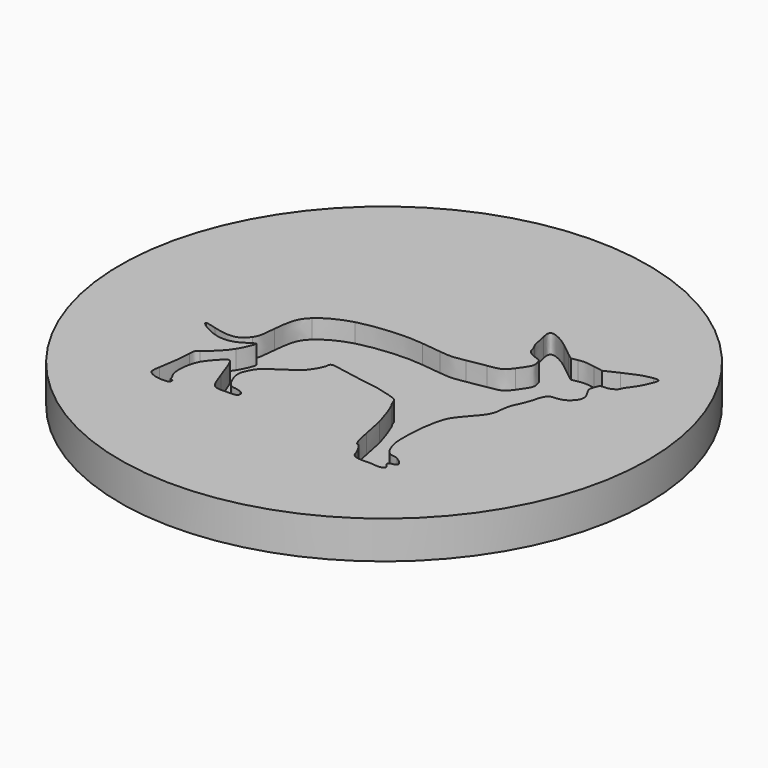
from build123d import *

# Parameters (mm, degrees)
SKETCH001_R  = 70
PAD_DEPTH    = 10
POCKET_DEPTH = 5


with BuildPart() as part:
    # Sketch001 (on DatumPlane) → Pad (new body)
    with BuildSketch(Plane.XY):
        Circle(SKETCH001_R)
    extrude(amount=-PAD_DEPTH)

    # Sketch (on DatumPlane) → Pocket (cut)
    with BuildSketch(Plane(origin=(-40, 32, 0), x_dir=(1, 0, 0), z_dir=(0, 0, 1))):
        with BuildLine():
            add(Edge.make_bspline(
                [(68.896688, -69.050224), (69.853046, -68.840335), (69.939306, -68.397571), (69.174573, -67.623233)],
                knots=[0, 0, 0, 0, 1, 1, 1, 1], degree=3))
            add(Edge.make_bspline(
                [(69.174573, -67.623233), (68.497977, -66.93813), (68.664464, -66.620165), (69.801599, -66.425704)],
                knots=[0, 0, 0, 0, 1, 1, 1, 1], degree=3))
            add(Edge.make_bspline(
                [(69.801599, -66.425704), (70.481337, -66.309459), (70.857303, -66.089783), (70.857303, -65.808897)],
                knots=[0, 0, 0, 0, 1, 1, 1, 1], degree=3))
            add(Edge.make_bspline(
                [(70.857303, -65.808897), (70.857303, -65.087044), (68.805554, -63.520486), (67.86013, -63.520486)],
                knots=[0, 0, 0, 0, 1, 1, 1, 1], degree=3))
            add(Edge.make_bspline(
                [(67.86013, -63.520486), (66.44733, -63.520486), (65.554333, -62.617787), (64.801489, -60.428646)],
                knots=[0, 0, 0, 0, 1, 1, 1, 1], degree=3))
            add(Edge.make_bspline(
                [(64.801489, -60.428646), (64.198998, -58.67669), (64.123085, -57.931333), (64.17819, -54.309316)],
                knots=[0, 0, 0, 0, 1, 1, 1, 1], degree=3))
            add(Edge.make_bspline(
                [(64.17819, -54.309316), (64.248008, -49.723311), (65.035142, -45.313717), (66.169677, -43.153298)],
                knots=[0, 0, 0, 0, 1, 1, 1, 1], degree=3))
            add(Edge.make_bspline(
                [(66.169677, -43.153298), (66.532859, -42.461713), (67.566981, -41.100626), (68.467725, -40.128712)],
                knots=[0, 0, 0, 0, 1, 1, 1, 1], degree=3))
            add(Edge.make_bspline(
                [(68.467725, -40.128712), (71.34076, -37.028632), (71.970325, -35.8971), (72.153608, -33.503688)],
                knots=[0, 0, 0, 0, 1, 1, 1, 1], degree=3))
            add(Edge.make_bspline(
                [(72.153608, -33.503688), (72.252911, -32.207202), (72.56815, -30.883798), (72.972327, -30.066637)],
                knots=[0, 0, 0, 0, 1, 1, 1, 1], degree=3))
            add(Edge.make_bspline(
                [(72.972327, -30.066637), (73.837001, -28.318369), (74.761765, -25.834789), (74.771062, -25.235711)],
                knots=[0, 0, 0, 0, 1, 1, 1, 1], degree=3))
            add(Edge.make_bspline(
                [(74.771062, -25.235711), (74.775367, -24.960891), (75.675509, -22.629867), (76.239733, -22.413668)],
                knots=[0, 0, 0, 0, 1, 1, 1, 1], degree=3))
            add(Edge.make_bspline(
                [(76.239733, -22.413668), (79.288388, -22.227729), (80.178544, -21.780563), (81.365878, -20.489852)],
                knots=[0, 0, 0, 0, 1, 1, 1, 1], degree=3))
            add(Edge.make_bspline(
                [(81.365878, -20.489852), (82.052158, -19.743813), (82.431482, -18.800832), (82.050678, -17.636498)],
                knots=[0, 0, 0, 0, 1, 1, 1, 1], degree=3))
            add(Edge.make_bspline(
                [(82.050678, -17.636498), (81.733028, -16.66529), (80.432643, -15.377828), (80.690564, -14.364165)],
                knots=[0, 0, 0, 0, 1, 1, 1, 1], degree=3))
            add(Edge.make_bspline(
                [(80.690564, -14.364165), (80.948434, -13.350581), (81.318624, -12.42897), (81.513201, -12.316123)],
                knots=[0, 0, 0, 0, 1, 1, 1, 1], degree=3))
            add(Edge.make_bspline(
                [(81.513201, -12.316123), (81.707761, -12.203307), (82.382179, -12.109105), (83.011831, -12.10679)],
                knots=[0, 0, 0, 0, 1, 1, 1, 1], degree=3))
            add(Edge.make_bspline(
                [(83.011831, -12.10679), (84.130035, -12.102867), (85.637446, -11.167287), (85.637446, -10.477491)],
                knots=[0, 0, 0, 0, 1, 1, 1, 1], degree=3))
            add(Edge.make_bspline(
                [(85.637446, -10.477491), (85.637446, -10.326104), (86.173201, -9.505027), (86.828051, -8.652945)],
                knots=[0, 0, 0, 0, 1, 1, 1, 1], degree=3))
            add(Edge.make_bspline(
                [(86.828051, -8.652945), (88.181364, -6.891886), (89.707284, -3.503253), (89.436621, -2.860228)],
                knots=[0, 0, 0, 0, 1, 1, 1, 1], degree=3))
            add(Edge.make_bspline(
                [(89.436621, -2.860228), (89.294196, -2.52186), (88.983959, -2.469093), (87.974493, -2.611502)],
                knots=[0, 0, 0, 0, 1, 1, 1, 1], degree=3))
            add(Edge.make_bspline(
                [(87.974493, -2.611502), (85.841304, -2.912454), (84.734463, -3.297005), (81.064077, -5.012368)],
                knots=[0, 0, 0, 0, 1, 1, 1, 1], degree=3))
            add(Edge.make_bspline(
                [(81.064077, -5.012368), (77.546498, -6.656421)],
                knots=[0, 0, 4.591778, 4.591778], degree=1))
            add(Edge.make_bspline(
                [(77.546498, -6.656421), (74.98321, -6.192759)],
                knots=[0, 0, 3.035556, 3.035556], degree=1))
            add(Edge.make_bspline(
                [(74.98321, -6.192759), (72.852432, -5.807337), (72.132904, -5.783417), (70.719071, -6.05097)],
                knots=[0, 0, 0, 0, 1, 1, 1, 1], degree=3))
            add(Edge.make_bspline(
                [(70.719071, -6.05097), (69.018219, -6.372836)],
                knots=[0, 0, 2.017824, 2.017824], degree=1))
            add(Edge.make_bspline(
                [(69.018219, -6.372836), (67.599996, -5.321662)],
                knots=[0, 0, 2.123249, 2.123249], degree=1))
            add(Edge.make_bspline(
                [(67.599996, -5.321662), (66.819964, -4.743497), (65.352998, -3.571668), (64.339993, -2.717623)],
                knots=[0, 0, 0, 0, 1, 1, 1, 1], degree=3))
            add(Edge.make_bspline(
                [(64.339993, -2.717623), (62.672716, -1.311978), (60.216006, -0.004191), (59.242689, -0.004191)],
                knots=[0, 0, 0, 0, 1, 1, 1, 1], degree=3))
            add(Edge.make_bspline(
                [(59.242689, -0.004191), (58.332819, -0.004191), (58.14592, -0.73787), (58.625735, -2.425775)],
                knots=[0, 0, 0, 0, 1, 1, 1, 1], degree=3))
            add(Edge.make_bspline(
                [(58.625735, -2.425775), (58.882882, -3.330357), (59.093282, -4.428616), (59.093282, -4.866271)],
                knots=[0, 0, 0, 0, 1, 1, 1, 1], degree=3))
            add(Edge.make_bspline(
                [(59.093282, -4.866271), (59.093282, -5.303966), (59.364754, -6.147455), (59.696548, -6.740727)],
                knots=[0, 0, 0, 0, 1, 1, 1, 1], degree=3))
            add(Edge.make_bspline(
                [(59.696548, -6.740727), (60.02835, -7.333983), (60.299831, -8.023952), (60.299831, -8.274052)],
                knots=[0, 0, 0, 0, 1, 1, 1, 1], degree=3))
            add(Edge.make_bspline(
                [(60.299831, -8.274052), (60.299831, -9.106908), (61.496806, -10.130615), (63.004303, -10.587026)],
                knots=[0, 0, 0, 0, 1, 1, 1, 1], degree=3))
            add(Edge.make_bspline(
                [(63.004303, -10.587026), (63.848436, -10.842612), (64.553898, -11.239131), (64.631464, -11.501575)],
                knots=[0, 0, 0, 0, 1, 1, 1, 1], degree=3))
            add(Edge.make_bspline(
                [(64.631464, -11.501575), (65.255563, -13.613889), (65.232887, -13.684202), (62.840821, -17.054942)],
                knots=[0, 0, 0, 0, 1, 1, 1, 1], degree=3))
            add(Edge.make_bspline(
                [(62.840821, -17.054942), (61.383169, -19.108949), (61.088574, -19.259229), (57.467431, -19.796469)],
                knots=[0, 0, 0, 0, 1, 1, 1, 1], degree=3))
            add(Edge.make_bspline(
                [(57.467431, -19.796469), (56.616428, -19.922728), (54.444947, -20.30476), (52.641821, -20.645413)],
                knots=[0, 0, 0, 0, 1, 1, 1, 1], degree=3))
            add(Edge.make_bspline(
                [(52.641821, -20.645413), (49.570611, -21.225689), (49.151532, -21.243087), (46.008783, -20.920703)],
                knots=[0, 0, 0, 0, 1, 1, 1, 1], degree=3))
            add(Edge.make_bspline(
                [(46.008783, -20.920703), (44.163646, -20.731429), (41.839599, -20.464959), (40.844243, -20.32853)],
                knots=[0, 0, 0, 0, 1, 1, 1, 1], degree=3))
            add(Edge.make_bspline(
                [(40.844243, -20.32853), (36.349903, -19.712564), (28.946802, -20.268262), (23.952803, -21.596531)],
                knots=[0, 0, 0, 0, 1, 1, 1, 1], degree=3))
            add(Edge.make_bspline(
                [(23.952803, -21.596531), (20.952789, -22.394387), (17.676774, -24.089135), (15.899734, -25.762616)],
                knots=[0, 0, 0, 0, 1, 1, 1, 1], degree=3))
            add(Edge.make_bspline(
                [(15.899734, -25.762616), (13.86856, -27.675368), (13.251821, -29.397974), (12.820173, -34.36427)],
                knots=[0, 0, 0, 0, 1, 1, 1, 1], degree=3))
            add(Edge.make_bspline(
                [(12.820173, -34.36427), (12.466977, -38.427788), (12.372289, -38.854771), (11.554499, -40.071291)],
                knots=[0, 0, 0, 0, 1, 1, 1, 1], degree=3))
            add(Edge.make_bspline(
                [(11.554499, -40.071291), (9.871467, -42.57496), (7.577465, -43.000374), (2.888823, -41.678069)],
                knots=[0, 0, 0, 0, 1, 1, 1, 1], degree=3))
            add(Edge.make_bspline(
                [(2.888823, -41.678069), (1.423681, -41.264858), (0.146299, -40.998459), (0.050224, -41.086045)],
                knots=[0, 0, 0, 0, 1, 1, 1, 1], degree=3))
            add(Edge.make_bspline(
                [(0.050224, -41.086045), (-0.261554, -41.37025), (0.940724, -42.338507), (2.663185, -43.190354)],
                knots=[0, 0, 0, 0, 1, 1, 1, 1], degree=3))
            add(Edge.make_bspline(
                [(2.663185, -43.190354), (6.374807, -45.025965), (9.055003, -44.971268), (12.0279, -42.999205)],
                knots=[0, 0, 0, 0, 1, 1, 1, 1], degree=3))
            add(Edge.make_bspline(
                [(12.0279, -42.999205), (13.058466, -42.315632), (13.957575, -41.807325), (14.02593, -41.869634)],
                knots=[0, 0, 0, 0, 1, 1, 1, 1], degree=3))
            add(Edge.make_bspline(
                [(14.02593, -41.869634), (14.287217, -42.107814), (13.263856, -44.600803), (12.178727, -46.369631)],
                knots=[0, 0, 0, 0, 1, 1, 1, 1], degree=3))
            add(Edge.make_bspline(
                [(12.178727, -46.369631), (11.109679, -48.11217), (9.194553, -50.093038), (6.985175, -51.741172)],
                knots=[0, 0, 0, 0, 1, 1, 1, 1], degree=3))
            add(Edge.make_bspline(
                [(6.985175, -51.741172), (6.100701, -52.40099), (6.005143, -52.61609), (6.007726, -53.940907)],
                knots=[0, 0, 0, 0, 1, 1, 1, 1], degree=3))
            add(Edge.make_bspline(
                [(6.007726, -53.940907), (6.011169, -55.715856), (5.475268, -60.235393), (4.966829, -62.71756)],
                knots=[0, 0, 0, 0, 1, 1, 1, 1], degree=3))
            add(Edge.make_bspline(
                [(4.966829, -62.71756), (4.763023, -63.712702), (4.697879, -64.777295), (4.822079, -65.083348)],
                knots=[0, 0, 0, 0, 1, 1, 1, 1], degree=3))
            add(Edge.make_bspline(
                [(4.822079, -65.083348), (5.186897, -65.982359), (7.13571, -66.736112), (9.021136, -66.707547)],
                knots=[0, 0, 0, 0, 1, 1, 1, 1], degree=3))
            add(Edge.make_bspline(
                [(9.021136, -66.707547), (10.502032, -66.685103), (10.690479, -66.615966), (10.776568, -66.063729)],
                knots=[0, 0, 0, 0, 1, 1, 1, 1], degree=3))
            add(Edge.make_bspline(
                [(10.776568, -66.063729), (10.841393, -65.647608), (10.718028, -65.445063), (10.399517, -65.445063)],
                knots=[0, 0, 0, 0, 1, 1, 1, 1], degree=3))
            add(Edge.make_bspline(
                [(10.399517, -65.445063), (10.139134, -65.445063), (9.926082, -65.255114), (9.926082, -65.022954)],
                knots=[0, 0, 0, 0, 1, 1, 1, 1], degree=3))
            add(Edge.make_bspline(
                [(9.926082, -65.022954), (9.926082, -64.790785), (9.713753, -64.30544), (9.454239, -63.944392)],
                knots=[0, 0, 0, 0, 1, 1, 1, 1], degree=3))
            add(Edge.make_bspline(
                [(9.454239, -63.944392), (8.305817, -62.34664), (8.700051, -57.634054), (10.179845, -55.271326)],
                knots=[0, 0, 0, 0, 1, 1, 1, 1], degree=3))
            add(Edge.make_bspline(
                [(10.179845, -55.271326), (11.275494, -53.522117), (13.568033, -51.146911), (14.160753, -51.146911)],
                knots=[0, 0, 0, 0, 1, 1, 1, 1], degree=3))
            add(Edge.make_bspline(
                [(14.160753, -51.146911), (14.774737, -51.146911), (15.174188, -52.006292), (17.036284, -57.333573)],
                knots=[0, 0, 0, 0, 1, 1, 1, 1], degree=3))
            add(Edge.make_bspline(
                [(17.036284, -57.333573), (18.848362, -62.517637), (19.03681, -62.710764), (22.236034, -62.662345)],
                knots=[0, 0, 0, 0, 1, 1, 1, 1], degree=3))
            add(Edge.make_bspline(
                [(22.236034, -62.662345), (25.292867, -62.616044), (25.611308, -62.525343), (25.611308, -61.700397)],
                knots=[0, 0, 0, 0, 1, 1, 1, 1], degree=3))
            add(Edge.make_bspline(
                [(25.611308, -61.700397), (25.611308, -61.181033), (25.360808, -60.922066), (24.565246, -60.619089)],
                knots=[0, 0, 0, 0, 1, 1, 1, 1], degree=3))
            add(Edge.make_bspline(
                [(24.565246, -60.619089), (23.989916, -60.399963), (23.199193, -60.220671), (22.808006, -60.220671)],
                knots=[0, 0, 0, 0, 1, 1, 1, 1], degree=3))
            add(Edge.make_bspline(
                [(22.808006, -60.220671), (22.416845, -60.220671), (21.811875, -59.942273), (21.463561, -59.602005)],
                knots=[0, 0, 0, 0, 1, 1, 1, 1], degree=3))
            add(Edge.make_bspline(
                [(21.463561, -59.602005), (20.555585, -58.714923), (19.578479, -56.273955), (19.578479, -54.892637)],
                knots=[0, 0, 0, 0, 1, 1, 1, 1], degree=3))
            add(Edge.make_bspline(
                [(19.578479, -54.892637), (19.578479, -53.364178), (21.109823, -50.531855), (22.394264, -49.684638)],
                knots=[0, 0, 0, 0, 1, 1, 1, 1], degree=3))
            add(Edge.make_bspline(
                [(22.394264, -49.684638), (22.919336, -49.338288), (24.279949, -48.442927), (25.417867, -47.694981)],
                knots=[0, 0, 0, 0, 1, 1, 1, 1], degree=3))
            add(Edge.make_bspline(
                [(25.417867, -47.694981), (26.555786, -46.947019), (28.010081, -45.922543), (28.649546, -45.418419)],
                knots=[0, 0, 0, 0, 1, 1, 1, 1], degree=3))
            add(Edge.make_bspline(
                [(28.649546, -45.418419), (29.877772, -44.450115), (31.643965, -41.579025), (31.643965, -40.550609)],
                knots=[0, 0, 0, 0, 1, 1, 1, 1], degree=3))
            add(Edge.make_bspline(
                [(31.643965, -40.550609), (31.643965, -39.415938), (32.285739, -39.255535), (34.552554, -39.823726)],
                knots=[0, 0, 0, 0, 1, 1, 1, 1], degree=3))
            add(Edge.make_bspline(
                [(34.552554, -39.823726), (35.690215, -40.108905), (38.181962, -40.559485), (40.089857, -40.82499)],
                knots=[0, 0, 0, 0, 1, 1, 1, 1], degree=3))
            add(Edge.make_bspline(
                [(40.089857, -40.82499), (45.274025, -41.546537), (47.238394, -41.937609), (49.815284, -42.761284)],
                knots=[0, 0, 0, 0, 1, 1, 1, 1], degree=3))
            add(Edge.make_bspline(
                [(49.815284, -42.761284), (52.043428, -43.473555), (52.164469, -43.556079), (52.462852, -44.566054)],
                knots=[0, 0, 0, 0, 1, 1, 1, 1], degree=3))
            add(Edge.make_bspline(
                [(52.462852, -44.566054), (52.634805, -45.148166), (52.896816, -45.692799), (53.045086, -45.776296)],
                knots=[0, 0, 0, 0, 1, 1, 1, 1], degree=3))
            add(Edge.make_bspline(
                [(53.045086, -45.776296), (53.373178, -45.961137), (54.92242, -50.195778), (55.767035, -53.216519)],
                knots=[0, 0, 0, 0, 1, 1, 1, 1], degree=3))
            add(Edge.make_bspline(
                [(55.767035, -53.216519), (56.106465, -54.43045), (56.645224, -57.068704), (56.964269, -59.079314)],
                knots=[0, 0, 0, 0, 1, 1, 1, 1], degree=3))
            add(Edge.make_bspline(
                [(56.964269, -59.079314), (57.485001, -62.360828), (58.087122, -64.069152), (58.723403, -64.070643)],
                knots=[0, 0, 0, 0, 1, 1, 1, 1], degree=3))
            add(Edge.make_bspline(
                [(58.723403, -64.070643), (59.097836, -64.071294), (60.527217, -66.35984), (60.747001, -67.310251)],
                knots=[0, 0, 0, 0, 1, 1, 1, 1], degree=3))
            add(Edge.make_bspline(
                [(60.747001, -67.310251), (61.094368, -68.812578), (62.297886, -69.219707), (65.729549, -68.995504)],
                knots=[0, 0, 0, 0, 1, 1, 1, 1], degree=3))
            add(Edge.make_bspline(
                [(65.729549, -68.995504), (65.978397, -68.979259), (66.589221, -69.029562), (67.086908, -69.107252)],
                knots=[0, 0, 0, 0, 1, 1, 1, 1], degree=3))
            add(Edge.make_bspline(
                [(67.086908, -69.107252), (67.584612, -69.184942), (68.39907, -69.159203), (68.896748, -69.049965)],
                knots=[0, 0, 0, 0, 1, 1, 1, 1], degree=3))
            add(Edge.make_bspline(
                [(68.896748, -69.049965), (68.896688, -69.050224)],
                knots=[0, 0, 0.000337, 0.000337], degree=1))
        make_face()
    extrude(amount=-POCKET_DEPTH, mode=Mode.SUBTRACT)


solid = part.part
